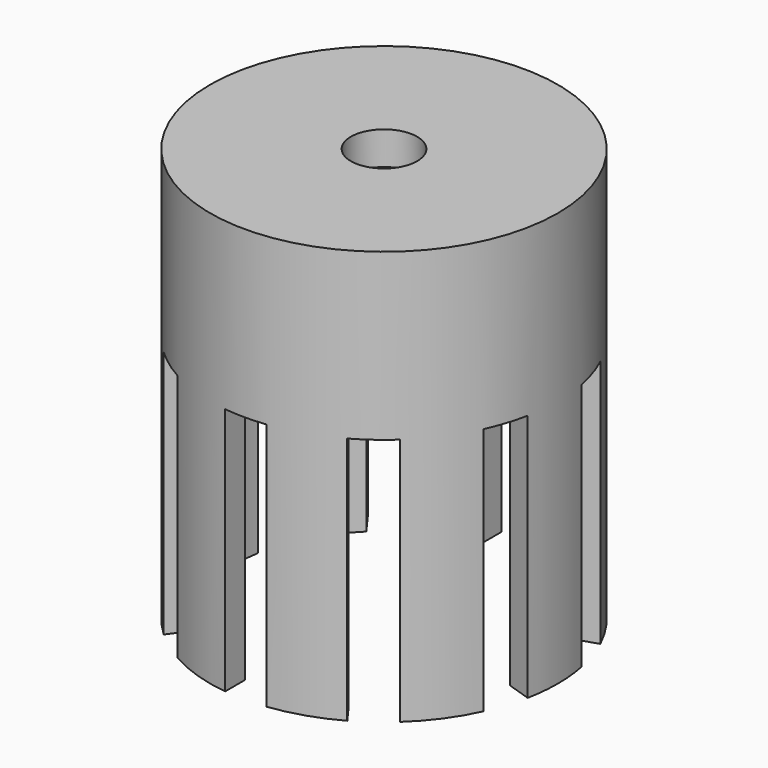
from build123d import *

# Parameters (mm, degrees)
F0_R     = 10.5
F0_R_2   = 9
F1_DEPTH = 25
F2_DEPTH = 23
F3_R     = 2
F4_DEPTH = 25.001
F6_DEPTH = 15


with BuildPart() as f1:
    # F0 (on Top) → F1 (new body)
    with BuildSketch(Plane.XY):
        Circle(F0_R)
        Circle(F0_R_2, mode=Mode.SUBTRACT)
        Circle(F0_R_2)
    extrude(amount=F1_DEPTH)

    # F0 (on Top) → F2 (cut)
    with BuildSketch(Plane.XY):
        Circle(F0_R_2)
    extrude(amount=F2_DEPTH, mode=Mode.SUBTRACT)

    # F3 (on face) → F4 (cut, through all)
    with BuildSketch(Plane.XY.offset(25)):
        Circle(F3_R)
    extrude(amount=-F4_DEPTH, mode=Mode.SUBTRACT)

    # F5 (on face) → F6 (cut)
    with BuildSketch(Plane.XY):
        with BuildLine():
            Line((6.2500670258, 6.4758522352), (7.1391263091, 7.699537359))
            ThreePointArc((7.1391263091, 7.699537359), (6.1717451491, 8.4946784409), (5.1165838232, 9.1690004897))
            Line((5.1165838232, 9.1690004897), (4.2275245399, 7.945315366))
            ThreePointArc((4.2275245399, 7.945315366), (5.2900672706, 7.2811529494), (6.2500670258, 6.4758522352))
        make_face()
        with BuildLine():
            Line((8.8628208798, 1.5653772877), (10.3013490182, 2.0327834135))
            ThreePointArc((10.3013490182, 2.0327834135), (9.9860934211, 3.2446784409), (9.5288065322, 4.4104247042))
            Line((9.5288065322, 4.4104247042), (8.0902783938, 3.9430185785))
            ThreePointArc((8.0902783938, 3.9430185785), (8.5595086467, 2.7811529494), (8.8628208798, 1.5653772877))
        make_face()
        with BuildLine():
            ThreePointArc((1.25, 10.425329731), (0, 10.5), (-1.25, 10.425329731))
            Line((-1.25, 10.425329731), (-1.25, 8.912771735))
            ThreePointArc((-1.25, 8.912771735), (0, 9), (1.25, 8.912771735))
            Line((1.25, 8.912771735), (1.25, 10.425329731))
        make_face()
        with BuildLine():
            ThreePointArc((-5.1165838232, 9.1690004897), (-6.1717451491, 8.4946784409), (-7.1391263091, 7.699537359))
            Line((-7.1391263091, 7.699537359), (-6.2500670258, 6.4758522352))
            ThreePointArc((-6.2500670258, 6.4758522352), (-5.2900672706, 7.2811529494), (-4.2275245399, 7.945315366))
            Line((-4.2275245399, 7.945315366), (-5.1165838232, 9.1690004897))
        make_face()
        with BuildLine():
            ThreePointArc((-10.3013490182, -2.0327834135), (-9.9860934211, -3.2446784409), (-9.5288065322, -4.4104247042))
            Line((-9.5288065322, -4.4104247042), (-8.0902783938, -3.9430185785))
            ThreePointArc((-8.0902783938, -3.9430185785), (-8.5595086467, -2.7811529494), (-8.8628208798, -1.5653772877))
            Line((-8.8628208798, -1.5653772877), (-10.3013490182, -2.0327834135))
        make_face()
        with BuildLine():
            ThreePointArc((-7.1391263091, -7.699537359), (-6.1717451491, -8.4946784409), (-5.1165838232, -9.1690004897))
            Line((-5.1165838232, -9.1690004897), (-4.2275245399, -7.945315366))
            ThreePointArc((-4.2275245399, -7.945315366), (-5.2900672706, -7.2811529494), (-6.2500670258, -6.4758522352))
            Line((-6.2500670258, -6.4758522352), (-7.1391263091, -7.699537359))
        make_face()
        with BuildLine():
            Line((-1.25, -8.912771735), (-1.25, -10.425329731))
            ThreePointArc((-1.25, -10.425329731), (0, -10.5), (1.25, -10.425329731))
            Line((1.25, -10.425329731), (1.25, -8.912771735))
            ThreePointArc((1.25, -8.912771735), (0, -9), (-1.25, -8.912771735))
        make_face()
        with BuildLine():
            Line((4.2275245399, -7.945315366), (5.1165838232, -9.1690004897))
            ThreePointArc((5.1165838232, -9.1690004897), (6.1717451491, -8.4946784409), (7.1391263091, -7.699537359))
            Line((7.1391263091, -7.699537359), (6.2500670258, -6.4758522352))
            ThreePointArc((6.2500670258, -6.4758522352), (5.2900672706, -7.2811529494), (4.2275245399, -7.945315366))
        make_face()
        with BuildLine():
            ThreePointArc((-9.5288065322, 4.4104247042), (-9.9860934211, 3.2446784409), (-10.3013490182, 2.0327834135))
            Line((-10.3013490182, 2.0327834135), (-8.8628208798, 1.5653772877))
            ThreePointArc((-8.8628208798, 1.5653772877), (-8.5595086467, 2.7811529494), (-8.0902783938, 3.9430185785))
            Line((-8.0902783938, 3.9430185785), (-9.5288065322, 4.4104247042))
        make_face()
        Polygon((-0.7725424859, -1.0633135104), (-0.4774575141, -1.4694631307), (0, -1.3143277803), align=None)
        Polygon((0, -1.3143277803), (0.4774575141, -1.4694631307), (0.7725424859, -1.0633135104), align=None)
        with BuildLine():
            Line((8.0902783938, -3.9430185785), (9.5288065322, -4.4104247042))
            ThreePointArc((9.5288065322, -4.4104247042), (9.9860934211, -3.2446784409), (10.3013490182, -2.0327834135))
            Line((10.3013490182, -2.0327834135), (8.8628208798, -1.5653772877))
            ThreePointArc((8.8628208798, -1.5653772877), (8.5595086467, -2.7811529494), (8.0902783938, -3.9430185785))
        make_face()
    extrude(amount=F6_DEPTH, mode=Mode.SUBTRACT)


solid = f1.part
